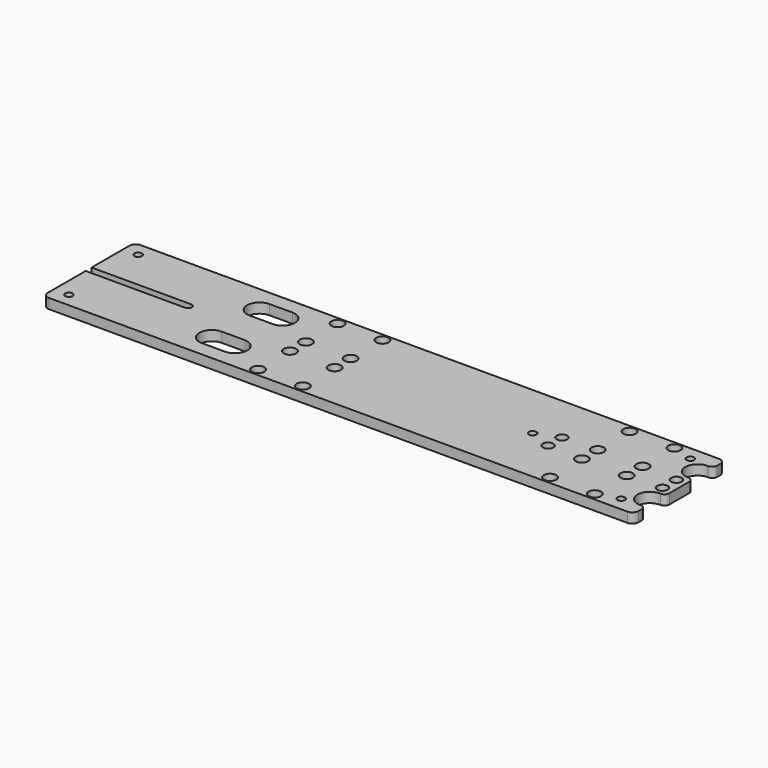
from build123d import *

# Parameters (mm, degrees)
SKETCH_R     = 2.8
SKETCH_R_2   = 4.25
SKETCH_R_3   = 3
PAD_DEPTH    = 8
SKETCH001_R  = 5
POCKET_DEPTH = 5.5


with BuildPart() as part:
    # Sketch → Pad (new body)
    with BuildSketch(Plane.XY):
        with BuildLine():
            Line((-5, 46), (-470, 46))
            ThreePointArc((-470, 46), (-473.535534, 44.535534), (-475, 41))
            Line((-475, 41), (-475, 3))
            Line((-395, 3), (-475, 3))
            ThreePointArc((-395, -3), (-392, 0), (-395, 3))
            Line((-395, -3), (-475, -3))
            Line((-475, -3), (-475, -41))
            ThreePointArc((-475, -41), (-473.535534, -44.535534), (-470, -46))
            Line((-5, -46), (-470, -46))
            ThreePointArc((-5, -46), (-1.464466, -44.535534), (0, -41))
            Line((0, -41), (0, -37.991069))
            ThreePointArc((0, -37.991069), (-1.22254, -35.112577), (-4.142857, -33.99362))
            ThreePointArc((-4.142857, -14.00638), (-14.5, -24), (-4.142857, -33.99362))
            ThreePointArc((-4.142857, -14.00638), (-1.22254, -12.887423), (0, -10.008931))
            Line((0, 10.008931), (0, -10.008931))
            ThreePointArc((0, 10.008931), (-1.22254, 12.887423), (-4.142857, 14.00638))
            ThreePointArc((-4.142857, 33.99362), (-14.5, 24), (-4.142857, 14.00638))
            ThreePointArc((-4.142857, 33.99362), (-1.22254, 35.112577), (0, 37.991069))
            Line((0, 41), (0, 37.991069))
            ThreePointArc((0, 41), (-1.464466, 44.535534), (-5, 46))
        make_face()
        with Locations((-306.75, 40)):
            Circle(SKETCH_R, mode=Mode.SUBTRACT)
        with Locations((-270.75, 40)):
            Circle(SKETCH_R, mode=Mode.SUBTRACT)
        with Locations((-270.75, 8)):
            Circle(SKETCH_R, mode=Mode.SUBTRACT)
        with Locations((-306.75, 8)):
            Circle(SKETCH_R, mode=Mode.SUBTRACT)
        with Locations((-306.75, -8)):
            Circle(SKETCH_R, mode=Mode.SUBTRACT)
        with Locations((-270.75, -8)):
            Circle(SKETCH_R, mode=Mode.SUBTRACT)
        with Locations((-306.75, -40)):
            Circle(SKETCH_R, mode=Mode.SUBTRACT)
        with Locations((-270.75, -40)):
            Circle(SKETCH_R, mode=Mode.SUBTRACT)
        with Locations((-72, -40)):
            Circle(SKETCH_R, mode=Mode.SUBTRACT)
        with Locations((-36, -40)):
            Circle(SKETCH_R, mode=Mode.SUBTRACT)
        with Locations((-36, -8)):
            Circle(SKETCH_R, mode=Mode.SUBTRACT)
        with Locations((-72, -8)):
            Circle(SKETCH_R, mode=Mode.SUBTRACT)
        with Locations((-36, 8)):
            Circle(SKETCH_R, mode=Mode.SUBTRACT)
        with Locations((-36, 40)):
            Circle(SKETCH_R, mode=Mode.SUBTRACT)
        with Locations((-72, 40)):
            Circle(SKETCH_R, mode=Mode.SUBTRACT)
        with Locations((-72, 8)):
            Circle(SKETCH_R, mode=Mode.SUBTRACT)
        with Locations((-100, 7)):
            Circle(SKETCH_R_2, mode=Mode.SUBTRACT)
        with Locations((-100, -7)):
            Circle(SKETCH_R_2, mode=Mode.SUBTRACT)
        with Locations((-8, 7)):
            Circle(SKETCH_R_2, mode=Mode.SUBTRACT)
        with Locations((-8, -7)):
            Circle(SKETCH_R_2, mode=Mode.SUBTRACT)
        with Locations((-19, 34.8)):
            Circle(SKETCH_R_3, mode=Mode.SUBTRACT)
        with Locations((-463, 34.8)):
            Circle(SKETCH_R_3, mode=Mode.SUBTRACT)
        with Locations((-463, -34.8)):
            Circle(SKETCH_R_3, mode=Mode.SUBTRACT)
        with Locations((-19, -34.8)):
            Circle(SKETCH_R_3, mode=Mode.SUBTRACT)
        with Locations((-118, 0)):
            Circle(SKETCH_R_3, mode=Mode.SUBTRACT)
        with BuildLine():
            ThreePointArc((-356.75, 34), (-366.75, 24), (-356.75, 14))
            Line((-356.75, 14), (-338.25, 14))
            ThreePointArc((-338.25, 14), (-328.25, 24), (-338.25, 34))
            Line((-356.75, 34), (-338.25, 34))
        make_face(mode=Mode.SUBTRACT)
        with BuildLine():
            ThreePointArc((-356.75, -14), (-366.75, -24), (-356.75, -34))
            Line((-356.75, -34), (-338.25, -34))
            ThreePointArc((-338.25, -34), (-328.25, -24), (-338.25, -14))
            Line((-356.75, -14), (-338.25, -14))
        make_face(mode=Mode.SUBTRACT)
    extrude(amount=-PAD_DEPTH)

    # Sketch001 → Pocket (cut)
    with BuildSketch(Plane.XY):
        with Locations((-306.75, -40)):
            Circle(SKETCH001_R)
        with Locations((-36, 8)):
            Circle(SKETCH001_R)
        with Locations((-36, 40)):
            Circle(SKETCH001_R)
        with Locations((-36, -40)):
            Circle(SKETCH001_R)
        with Locations((-270.75, -8)):
            Circle(SKETCH001_R)
        with Locations((-72, -40)):
            Circle(SKETCH001_R)
        with Locations((-306.75, 40)):
            Circle(SKETCH001_R)
        with Locations((-72, -8)):
            Circle(SKETCH001_R)
        with Locations((-270.75, 40)):
            Circle(SKETCH001_R)
        with Locations((-270.75, 8)):
            Circle(SKETCH001_R)
        with Locations((-72, 8)):
            Circle(SKETCH001_R)
        with Locations((-270.75, -40)):
            Circle(SKETCH001_R)
        with Locations((-72, 40)):
            Circle(SKETCH001_R)
        with Locations((-306.75, -8)):
            Circle(SKETCH001_R)
        with Locations((-36, -8)):
            Circle(SKETCH001_R)
        with Locations((-306.75, 8)):
            Circle(SKETCH001_R)
    extrude(amount=-POCKET_DEPTH, mode=Mode.SUBTRACT)


solid = part.part
